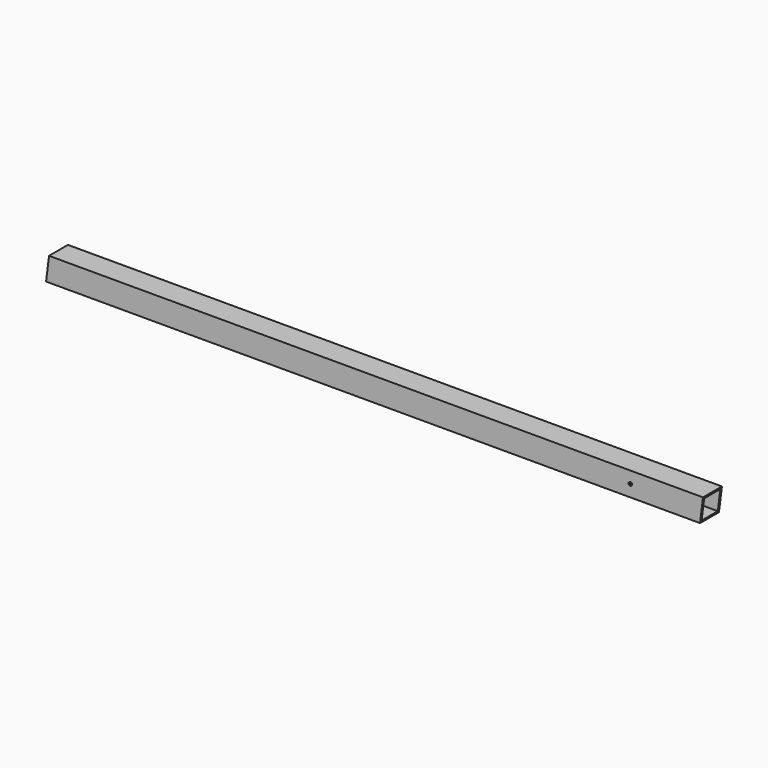
from build123d import *

# Parameters (mm, degrees)
F1_DEPTH = 44.45
F2_T     = -3.175
F3_W     = 38.1
F3_H     = 38.3965011568
F4_DEPTH = 8.689331367
F6_D     = 6.7945


with BuildPart() as f1:
    # F0 (on Front) → F1 (new body)
    with BuildSketch(Plane.XZ):
        Polygon((-5.5562371184, -44.45), (17.9743102048, -44.45), (1223.1325170816, -44.45), (1228.6887542, 0), (0, 0), align=None)
    extrude(amount=F1_DEPTH)

    # F2
    f2_openings = [f1.faces().sort_by_distance(p)[0] for p in [
        (1225.910636, -22.225, -22.225),
    ]]
    offset(amount=F2_T, openings=f2_openings)

    # F3 (on face) → F4 (cut, through all)
    with BuildSketch(Plane(origin=(3.1504823709, 0, -0.3938093834), x_dir=(0, 1, 0), z_dir=(0.9922779121, 0, -0.1240344515))):
        with Locations((-22.225, -22.0010849282)):
            Rectangle(F3_W, F3_H)
    extrude(amount=-F4_DEPTH, mode=Mode.SUBTRACT)

    # F6 (through all)
    with Locations(Plane.XZ.offset(44.45)):
        with Locations((1092.1637542, -22.225)):
            Hole(F6_D / 2)


solid = f1.part
